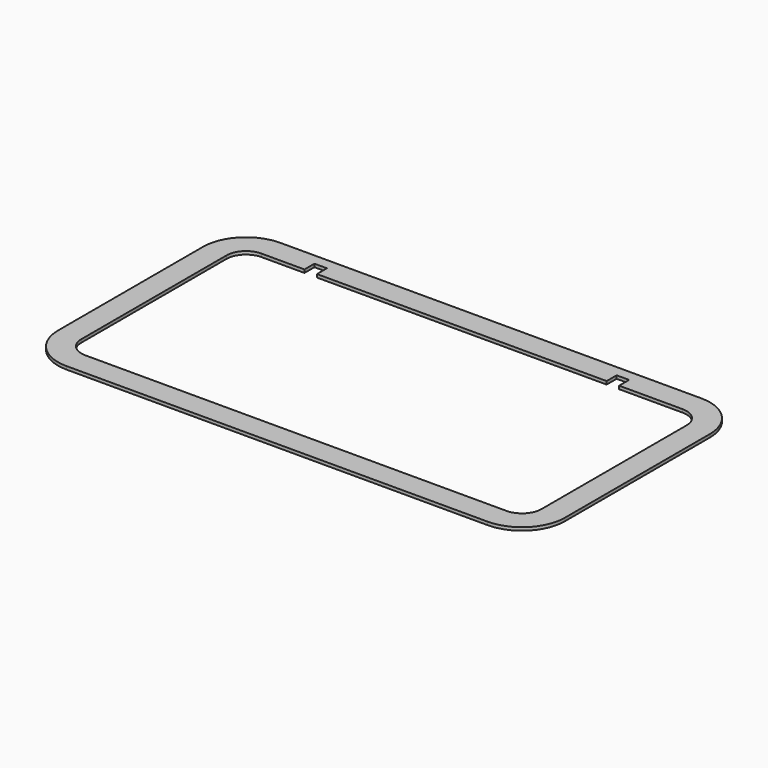
from build123d import *

# Parameters (mm, degrees)
F1_DEPTH = 2.54
F2_W     = 10.16
F2_H     = 10.16
F3_DEPTH = 2.54


with BuildPart() as f1:
    # F0 (on Top) → F1 (new body)
    with BuildSketch(Plane.XY):
        with BuildLine():
            Line((206.375, -73.81875), (206.375, 73.81875))
            ThreePointArc((206.375, 73.81875), (196.145704, 98.514454), (171.45, 108.74375))
            Line((171.45, 108.74375), (-171.45, 108.74375))
            ThreePointArc((-171.45, 108.74375), (-196.145704, 98.514454), (-206.375, 73.81875))
            Line((-206.375, 73.81875), (-206.375, -73.81875))
            ThreePointArc((-206.375, -73.81875), (-196.145704, -98.514454), (-171.45, -108.74375))
            Line((-171.45, -108.74375), (171.45, -108.74375))
            ThreePointArc((171.45, -108.74375), (196.145704, -98.514454), (206.375, -73.81875))
        make_face()
        with BuildLine():
            ThreePointArc((187.325, -73.81875), (182.67532, -85.04407), (171.45, -89.69375))
            Line((171.45, -89.69375), (-171.45, -89.69375))
            ThreePointArc((-171.45, -89.69375), (-182.67532, -85.04407), (-187.325, -73.81875))
            Line((-187.325, -73.81875), (-187.325, 73.81875))
            ThreePointArc((-187.325, 73.81875), (-182.67532, 85.04407), (-171.45, 89.69375))
            Line((-171.45, 89.69375), (171.45, 89.69375))
            ThreePointArc((171.45, 89.69375), (182.67532, 85.04407), (187.325, 73.81875))
            Line((187.325, 73.81875), (187.325, -73.81875))
        make_face(mode=Mode.SUBTRACT)
    extrude(amount=F1_DEPTH)

    # F2 (on face) → F3 (cut, through all)
    with BuildSketch(Plane.XY.offset(2.54)):
        with Locations((-131.445, 94.77375)):
            Rectangle(F2_W, F2_H)
        with Locations((114.6175, 94.77375)):
            Rectangle(F2_W, F2_H)
    extrude(amount=-F3_DEPTH, mode=Mode.SUBTRACT)


solid = f1.part
